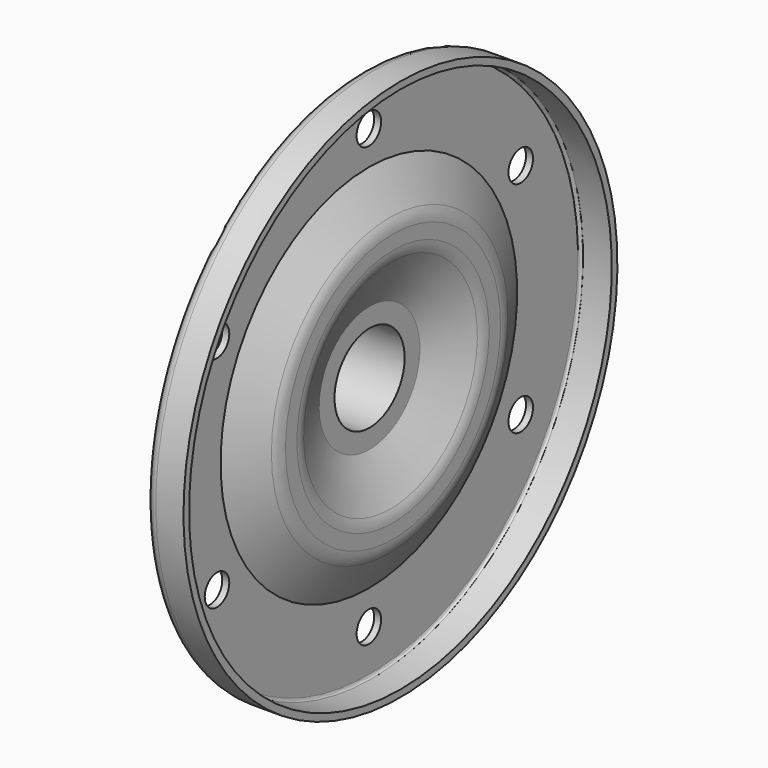
from build123d import *

# Parameters (mm, degrees)
SKETCH036_R           = 4.445
POCKET003_DEPTH       = 461.643083323
POLARPATTERN003_COUNT = 6
CHAMFER_SIZE          = 2.032
FILLET_R              = 3.175
FILLET001_R           = 0.79375
FILLET002_R           = 8.001


with BuildPart() as part:
    # Sketch035 → Revolution006 (revolve)
    with BuildSketch(Plane.XZ):
        Polygon((0, 78.5749), (-11.176, 78.5749), (-11.176, 53.1749), (-4.191, 40.4749), (-4.191, 33.4899), (-11.176, 18.2499), (-11.176, 16.7005), (-36.576, 16.7005), (-36.576, 12.7), (-8.9407358595, 12.7), (-8.9407358595, 18.2499), (-2.159, 33.0464146026), (-2.159, 40.9968329476), (-9.144, 53.6968329476), (-9.144, 76.5429), (0, 76.5429), align=None)
    revolve(axis=Axis((0, 0, 0), (1, 0, 0)))

    # Sketch036 → Pocket003 (cut, through all)
    with BuildSketch(Plane(origin=(-11.176, 0, 0), x_dir=(0, 0, -1), z_dir=(-1, 0, 0))):
        with Locations((-63.5, 0)):
            Circle(SKETCH036_R)
    pocket003 = extrude(amount=-POCKET003_DEPTH, mode=Mode.SUBTRACT)

    # PolarPattern003: Pocket003 ×6 about axis
    polarpattern003_axis = Axis((-11.176, 0, 0), (-1, 0, 0))
    for i in range(1, POLARPATTERN003_COUNT):
        add(pocket003.rotate(polarpattern003_axis, i * 360 / POLARPATTERN003_COUNT), mode=Mode.SUBTRACT)

    # Chamfer
    chamfer_edges = [part.edges().sort_by_distance(p)[0] for p in [
        (-36.576, 0, -16.7005),
    ]]
    chamfer(chamfer_edges, length=CHAMFER_SIZE)

    # Fillet
    fillet_edges = [part.edges().sort_by_distance(p)[0] for p in [
        (-11.176, 0, -78.5749),
    ]]
    fillet(fillet_edges, radius=FILLET_R)

    # Fillet001
    fillet001_edges = [part.edges().sort_by_distance(p)[0] for p in [
        (-9.144, 0, -76.5429),
    ]]
    fillet(fillet001_edges, radius=FILLET001_R)

    # Fillet002
    fillet002_edges = [part.edges().sort_by_distance(p)[0] for p in [
        (-2.159, 0, -33.046415),
        (-2.159, 0, -40.996833),
    ]]
    fillet(fillet002_edges, radius=FILLET002_R)


with BuildPart() as part_1:
    # Body011 placement: moved
    add(part.part.moved(Location((-320.04, 0, 0))))


solid = part_1.part
